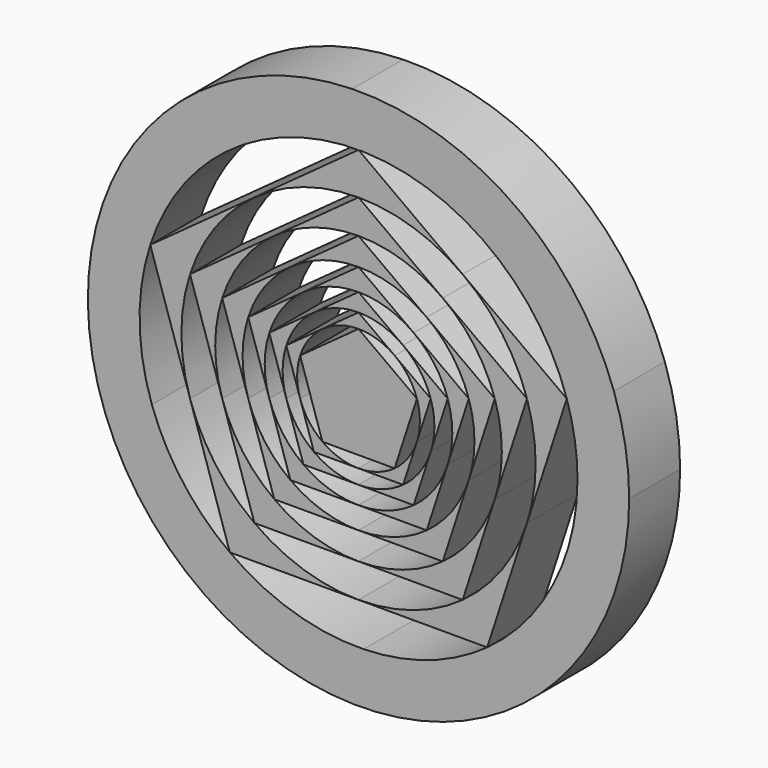
from build123d import *

# Parameters (mm, degrees)
F1_DEPTH = 25.4


with BuildPart() as f1:
    # F0 (on Front) → F1 (new body)
    with BuildSketch(Plane.XZ):
        with BuildLine():
            ThreePointArc((65.4708713133, -85.8298753901), (96.7491164256, -47.8833057638), (107.95, 0))
            ThreePointArc((107.95, 0), (106.416780338, 18.1292956975), (101.8606741549, 35.7436086694))
            Line((101.8606741549, 35.7436086694), (83.6657724814, -25.0431342047))
            Line((83.6657724814, -25.0431342047), (65.4708713133, -85.8298753901))
        make_face()
        with BuildLine():
            Line((49.6715808666, 71.8321244981), (101.8606741549, 35.7436086694))
            ThreePointArc((101.8606741549, 35.7436086694), (61.3974504102, 88.7893889106), (-2.5175125686, 107.9206404284))
            Line((-2.5175125686, 107.9206404284), (49.6715808666, 71.8321244981))
        make_face()
        with BuildLine():
            Line((83.6657724814, -25.0431342047), (101.8606741549, 35.7436086694))
            Line((101.8606741549, 35.7436086694), (49.6715808666, 71.8321244981))
            ThreePointArc((49.6715808666, 71.8321244981), (70.0507732258, 52.1537076933), (83.0589844595, 26.9875))
            ThreePointArc((83.0589844595, 26.9875), (86.2581656576, 13.6619512911), (87.3333845428, 0))
            ThreePointArc((87.3333845428, 0), (86.4116170919, -12.6551367933), (83.6657724814, -25.0431342047))
        make_face()
        with BuildLine():
            Line((2.036708915, -87.3096321862), (65.4708713133, -85.8298753901))
            Line((65.4708713133, -85.8298753901), (83.6657724814, -25.0431342047))
            ThreePointArc((83.6657724814, -25.0431342047), (71.2480027175, -50.5058626742), (51.333275467, -70.6541922714))
            ThreePointArc((51.333275467, -70.6541922714), (27.954243469, -82.7386265765), (2.036708915, -87.3096321862))
        make_face()
        with BuildLine():
            ThreePointArc((-61.3974504102, -88.7893889106), (2.5175125686, -107.9206404284), (65.4708713133, -85.8298753901))
            Line((65.4708713133, -85.8298753901), (2.036708915, -87.3096321862))
            Line((2.036708915, -87.3096321862), (-61.3974504102, -88.7893889106))
        make_face()
        with BuildLine():
            Line((-52.9670488634, 69.4378267978), (-2.5175125686, 107.9206404284))
            ThreePointArc((-2.5175125686, 107.9206404284), (-65.4708713133, 85.8298753901), (-103.4165824894, 30.955015203))
            Line((-103.4165824894, 30.955015203), (-52.9670488634, 69.4378267978))
        make_face()
        with BuildLine():
            Line((49.6715808666, 71.8321244981), (-2.5175125686, 107.9206404284))
            Line((-2.5175125686, 107.9206404284), (-52.9670488634, 69.4378267978))
            ThreePointArc((-52.9670488634, 69.4378267978), (-27.954244992, 82.738626062), (0, 87.3333845428))
            ThreePointArc((0, 87.3333845428), (26.0170857743, 83.3680472574), (49.6715808666, 71.8321244981))
        make_face()
        with BuildLine():
            Line((-82.4070165942, -28.9171864423), (-61.3974504102, -88.7893889106))
            Line((-61.3974504102, -88.7893889106), (2.036708915, -87.3096321862))
            ThreePointArc((2.036708915, -87.3096321862), (-26.0170864653, -83.3680470417), (-51.333275467, -70.6541922714))
            ThreePointArc((-51.333275467, -70.6541922714), (-70.0507733294, -52.1537075542), (-82.4070165942, -28.9171864423))
        make_face()
        with BuildLine():
            ThreePointArc((-103.4165824894, 30.955015203), (-101.8606741549, -35.7436086694), (-61.3974504102, -88.7893889106))
            Line((-61.3974504102, -88.7893889106), (-82.4070165942, -28.9171864423))
            Line((-82.4070165942, -28.9171864423), (-103.4165824894, 30.955015203))
        make_face()
        with BuildLine():
            Line((-52.9670488634, 69.4378267978), (-103.4165824894, 30.955015203))
            Line((-103.4165824894, 30.955015203), (-82.4070165942, -28.9171864423))
            ThreePointArc((-82.4070165942, -28.9171864423), (-87.3274462453, -1.0184242563), (-83.0589844595, 26.9875))
            ThreePointArc((-83.0589844595, 26.9875), (-71.2480034576, 50.5058616301), (-52.9670488634, 69.4378267978))
        make_face()
    extrude(amount=F1_DEPTH)


with BuildPart() as f1b:
    # F0 (on Front) → F1, piece 2 (new body)
    with BuildSketch(Plane.XZ):
        Polygon((14.3927852033, -19.809969339), (23.2880156517, 7.5667349714), (0, 24.4864687353), (-23.2880156517, 7.5667349714), (-14.3927852033, -19.809969339), align=None)
    extrude(amount=F1_DEPTH)


with BuildPart() as f1c:
    # F0 (on Front) → F1, piece 3 (new body)
    with BuildSketch(Plane.XZ):
        with BuildLine():
            Line((-14.392784952, 19.8099695217), (-28.7855704066, 9.3529987924))
            Line((-28.7855704066, 9.3529987924), (-23.2880157344, -7.5667347168))
            ThreePointArc((-23.2880157344, -7.5667347168), (-24.4864687353, 1.339e-07), (-23.2880156517, 7.5667349714))
            ThreePointArc((-23.2880156517, 7.5667349714), (-19.8099692477, 14.392785329), (-14.392784952, 19.8099695217))
        make_face()
    extrude(amount=F1_DEPTH)


with BuildPart() as f1d:
    # F0 (on Front) → F1, piece 4 (new body)
    with BuildSketch(Plane.XZ):
        with BuildLine():
            Line((-23.2880157344, -7.5667347168), (-17.7904608968, -24.4864687353))
            Line((-17.7904608968, -24.4864687353), (2.35e-08, -24.4864687353))
            ThreePointArc((2.35e-08, -24.4864687353), (-7.5667349603, -23.2880156553), (-14.3927852033, -19.809969339))
            ThreePointArc((-14.3927852033, -19.809969339), (-19.8099694177, -14.392785095), (-23.2880157344, -7.5667347168))
        make_face()
    extrude(amount=F1_DEPTH)


with BuildPart() as f1e:
    # F0 (on Front) → F1, piece 5 (new body)
    with BuildSketch(Plane.XZ):
        with BuildLine():
            Line((2.35e-08, -24.4864687353), (17.7904608968, -24.4864687353))
            Line((17.7904608968, -24.4864687353), (23.2880155709, -7.56673522))
            ThreePointArc((23.2880155709, -7.56673522), (19.8099692622, -14.392785309), (14.3927852033, -19.809969339))
            ThreePointArc((14.3927852033, -19.809969339), (7.5667349826, -23.2880156481), (2.35e-08, -24.4864687353))
        make_face()
    extrude(amount=F1_DEPTH)


with BuildPart() as f1f:
    # F0 (on Front) → F1, piece 6 (new body)
    with BuildSketch(Plane.XZ):
        with BuildLine():
            Line((23.2880155709, -7.56673522), (28.7855704066, 9.3529987924))
            Line((28.7855704066, 9.3529987924), (14.3927851978, 19.8099693431))
            ThreePointArc((14.3927851978, 19.8099693431), (19.809969337, 14.3927852061), (23.2880156517, 7.5667349714))
            ThreePointArc((23.2880156517, 7.5667349714), (24.1849996722, 3.8305276373), (24.4864687353, 0))
            ThreePointArc((24.4864687353, 0), (24.1849996517, -3.8305277664), (23.2880155709, -7.56673522))
        make_face()
    extrude(amount=F1_DEPTH)


with BuildPart() as f1g:
    # F0 (on Front) → F1, piece 7 (new body)
    with BuildSketch(Plane.XZ):
        with BuildLine():
            Line((14.3927851978, 19.8099693431), (0, 30.2669398857))
            Line((0, 30.2669398857), (-14.392784952, 19.8099695217))
            ThreePointArc((-14.392784952, 19.8099695217), (-7.5667348237, 23.2880156997), (0, 24.4864687353))
            ThreePointArc((0, 24.4864687353), (7.5667349682, 23.2880156528), (14.3927851978, 19.8099693431))
        make_face()
    extrude(amount=F1_DEPTH)


with BuildPart() as f1h:
    # F0 (on Front) → F1, piece 8 (new body)
    with BuildSketch(Plane.XZ):
        with BuildLine():
            Line((17.7904604127, 24.486469087), (0, 37.4119951696))
            Line((0, 37.4119951696), (-17.7904603478, 24.4864691341))
            ThreePointArc((-17.7904603478, 24.4864691341), (-9.3529984697, 28.7855705115), (0, 30.2669398857))
            ThreePointArc((0, 30.2669398857), (9.3529985079, 28.7855704991), (17.7904604127, 24.486469087))
        make_face()
    extrude(amount=F1_DEPTH)


with BuildPart() as f1i:
    # F0 (on Front) → F1, piece 9 (new body)
    with BuildSketch(Plane.XZ):
        with BuildLine():
            Line((-17.7904603478, 24.4864691341), (-35.5809217937, 11.5609423009))
            Line((-35.5809217937, 11.5609423009), (-28.7855703869, -9.3529988532))
            ThreePointArc((-28.7855703869, -9.3529988532), (-30.2669398857, -3.2e-08), (-28.7855704066, 9.3529987924))
            ThreePointArc((-28.7855704066, 9.3529987924), (-24.4864685358, 17.7904611713), (-17.7904603478, 24.4864691341))
        make_face()
    extrude(amount=F1_DEPTH)


with BuildPart() as f1j:
    # F0 (on Front) → F1, piece 10 (new body)
    with BuildSketch(Plane.XZ):
        with BuildLine():
            Line((-28.7855703869, -9.3529988532), (-21.9902190195, -30.2669398857))
            Line((-21.9902190195, -30.2669398857), (2.87e-08, -30.2669398857))
            ThreePointArc((2.87e-08, -30.2669398857), (-9.3529987788, -28.785570411), (-17.7904608968, -24.4864687353))
            ThreePointArc((-17.7904608968, -24.4864687353), (-24.4864687165, -17.7904609227), (-28.7855703869, -9.3529988532))
        make_face()
    extrude(amount=F1_DEPTH)


with BuildPart() as f1k:
    # F0 (on Front) → F1, piece 11 (new body)
    with BuildSketch(Plane.XZ):
        with BuildLine():
            Line((2.87e-08, -30.2669398857), (21.9902190195, -30.2669398857))
            Line((21.9902190195, -30.2669398857), (28.7855703869, -9.3529988532))
            ThreePointArc((28.7855703869, -9.3529988532), (24.4864687165, -17.7904609227), (17.7904608968, -24.4864687353))
            ThreePointArc((17.7904608968, -24.4864687353), (9.352998806, -28.7855704022), (2.87e-08, -30.2669398857))
        make_face()
    extrude(amount=F1_DEPTH)


with BuildPart() as f1l:
    # F0 (on Front) → F1, piece 12 (new body)
    with BuildSketch(Plane.XZ):
        with BuildLine():
            Line((28.7855703869, -9.3529988532), (35.5809217937, 11.5609423009))
            Line((35.5809217937, 11.5609423009), (17.7904604127, 24.486469087))
            ThreePointArc((17.7904604127, 24.486469087), (24.4864685594, 17.7904611389), (28.7855704066, 9.3529987924))
            ThreePointArc((28.7855704066, 9.3529987924), (29.8943036306, 4.7347925494), (30.2669398857, 0))
            ThreePointArc((30.2669398857, 0), (29.8943036256, -4.734792581), (28.7855703869, -9.3529988532))
        make_face()
    extrude(amount=F1_DEPTH)


with BuildPart() as f1m:
    # F0 (on Front) → F1, piece 13 (new body)
    with BuildSketch(Plane.XZ):
        with BuildLine():
            Line((21.9902193415, 30.2669396518), (0, 46.2437692035))
            Line((0, 46.2437692035), (-21.9902190969, 30.2669398295))
            ThreePointArc((-21.9902190969, 30.2669398295), (-11.5609423464, 35.5809217789), (0, 37.4119951696))
            ThreePointArc((0, 37.4119951696), (11.5609424901, 35.5809217322), (21.9902193415, 30.2669396518))
        make_face()
    extrude(amount=F1_DEPTH)


with BuildPart() as f1n:
    # F0 (on Front) → F1, piece 14 (new body)
    with BuildSketch(Plane.XZ):
        with BuildLine():
            Line((-21.9902190969, 30.2669398295), (-43.9804380391, 14.2901105678))
            Line((-43.9804380391, 14.2901105678), (-35.5809218678, -11.5609420729))
            ThreePointArc((-35.5809218678, -11.5609420729), (-37.4119951696, 1.199e-07), (-35.5809217937, 11.5609423009))
            ThreePointArc((-35.5809217937, 11.5609423009), (-30.2669399138, 21.9902189809), (-21.9902190969, 30.2669398295))
        make_face()
    extrude(amount=F1_DEPTH)


with BuildPart() as f1o:
    # F0 (on Front) → F1, piece 15 (new body)
    with BuildSketch(Plane.XZ):
        with BuildLine():
            Line((-35.5809218678, -11.5609420729), (-27.1814055483, -37.4119951696))
            Line((-27.1814055483, -37.4119951696), (0, -37.4119951696))
            ThreePointArc((0, -37.4119951696), (-11.5609423009, -35.5809217937), (-21.9902190195, -30.2669398857))
            ThreePointArc((-21.9902190195, -30.2669398857), (-30.2669399562, -21.9902189226), (-35.5809218678, -11.5609420729))
        make_face()
    extrude(amount=F1_DEPTH)


with BuildPart() as f1p:
    # F0 (on Front) → F1, piece 16 (new body)
    with BuildSketch(Plane.XZ):
        with BuildLine():
            Line((0, -37.4119951696), (27.1814055483, -37.4119951696))
            Line((27.1814055483, -37.4119951696), (35.5809216693, -11.5609426837))
            ThreePointArc((35.5809216693, -11.5609426837), (30.2669397674, -21.9902191823), (21.9902190195, -30.2669398857))
            ThreePointArc((21.9902190195, -30.2669398857), (11.5609423009, -35.5809217937), (0, -37.4119951696))
        make_face()
    extrude(amount=F1_DEPTH)


with BuildPart() as f1q:
    # F0 (on Front) → F1, piece 17 (new body)
    with BuildSketch(Plane.XZ):
        with BuildLine():
            Line((35.5809216693, -11.5609426837), (43.9804380391, 14.2901105678))
            Line((43.9804380391, 14.2901105678), (21.9902193415, 30.2669396518))
            ThreePointArc((21.9902193415, 30.2669396518), (30.2669400027, 21.9902188586), (35.5809217937, 11.5609423009))
            ThreePointArc((35.5809217937, 11.5609423009), (36.9513914274, 5.8525254504), (37.4119951696, 0))
            ThreePointArc((37.4119951696, 0), (36.951391396, -5.8525256492), (35.5809216693, -11.5609426837))
        make_face()
    extrude(amount=F1_DEPTH)


with BuildPart() as f1r:
    # F0 (on Front) → F1, piece 18 (new body)
    with BuildSketch(Plane.XZ):
        with BuildLine():
            Line((27.1814040011, 37.4119962937), (0, 57.1604422714))
            Line((0, 57.1604422714), (-27.1814039656, 37.4119963195))
            ThreePointArc((-27.1814039656, 37.4119963195), (-14.2901096376, 43.9804383413), (0, 46.2437692035))
            ThreePointArc((0, 46.2437692035), (14.2901096585, 43.9804383346), (27.1814040011, 37.4119962937))
        make_face()
    extrude(amount=F1_DEPTH)


with BuildPart() as f1s:
    # F0 (on Front) → F1, piece 19 (new body)
    with BuildSketch(Plane.XZ):
        with BuildLine():
            Line((-27.1814039656, 37.4119963195), (-54.3628110965, 17.6635480678))
            Line((-54.3628110965, 17.6635480678), (-43.9804386753, -14.2901086097))
            ThreePointArc((-43.9804386753, -14.2901086097), (-46.2437692035, 1.0294e-06), (-43.9804380391, 14.2901105678))
            ThreePointArc((-43.9804380391, 14.2901105678), (-37.4119945947, 27.1814063396), (-27.1814039656, 37.4119963195))
        make_face()
    extrude(amount=F1_DEPTH)


with BuildPart() as f1t:
    # F0 (on Front) → F1, piece 20 (new body)
    with BuildSketch(Plane.XZ):
        with BuildLine():
            Line((-43.9804386753, -14.2901086097), (-33.5980649816, -46.2437692035))
            Line((-33.5980649816, -46.2437692035), (0, -46.2437692035))
            ThreePointArc((0, -46.2437692035), (-14.2901105678, -43.9804380391), (-27.1814055483, -37.4119951696))
            ThreePointArc((-27.1814055483, -37.4119951696), (-37.4119957747, -27.1814047154), (-43.9804386753, -14.2901086097))
        make_face()
    extrude(amount=F1_DEPTH)


with BuildPart() as f1u:
    # F0 (on Front) → F1, piece 21 (new body)
    with BuildSketch(Plane.XZ):
        with BuildLine():
            Line((0, -46.2437692035), (33.5980649816, -46.2437692035))
            Line((33.5980649816, -46.2437692035), (43.9804387502, -14.2901083794))
            ThreePointArc((43.9804387502, -14.2901083794), (37.4119958459, -27.1814046174), (27.1814055483, -37.4119951696))
            ThreePointArc((27.1814055483, -37.4119951696), (14.2901105678, -43.9804380391), (0, -46.2437692035))
        make_face()
    extrude(amount=F1_DEPTH)


with BuildPart() as f1v:
    # F0 (on Front) → F1, piece 22 (new body)
    with BuildSketch(Plane.XZ):
        with BuildLine():
            Line((43.9804387502, -14.2901083794), (54.3628110965, 17.6635480678))
            Line((54.3628110965, 17.6635480678), (27.1814040011, 37.4119962937))
            ThreePointArc((27.1814040011, 37.4119962937), (37.4119946076, 27.1814063218), (43.9804380391, 14.2901105678))
            ThreePointArc((43.9804380391, 14.2901105678), (45.6744316675, 7.2341192968), (46.2437692035, 0))
            ThreePointArc((46.2437692035, 0), (45.6744318475, -7.2341181604), (43.9804387502, -14.2901083794))
        make_face()
    extrude(amount=F1_DEPTH)


with BuildPart() as f1w:
    # F0 (on Front) → F1, piece 23 (new body)
    with BuildSketch(Plane.XZ):
        with BuildLine():
            Line((33.5980670213, 46.2437677217), (0, 70.6541922714))
            Line((0, 70.6541922714), (-33.5980666994, 46.2437679555))
            ThreePointArc((-33.5980666994, 46.2437679555), (-17.6635490775, 54.3628107684), (0, 57.1604422714))
            ThreePointArc((0, 57.1604422714), (17.6635492667, 54.362810707), (33.5980670213, 46.2437677217))
        make_face()
    extrude(amount=F1_DEPTH)


with BuildPart() as f1x:
    # F0 (on Front) → F1, piece 24 (new body)
    with BuildSketch(Plane.XZ):
        with BuildLine():
            Line((-33.5980666994, 46.2437679555), (-67.1961299633, 21.8333461357))
            Line((-67.1961299633, 21.8333461357), (-54.3628114976, -17.6635468334))
            ThreePointArc((-54.3628114976, -17.6635468334), (-57.1604422714, 6.49e-07), (-54.3628110965, 17.6635480678))
            ThreePointArc((-54.3628110965, 17.6635480678), (-46.2437698276, 33.5980641227), (-33.5980666994, 46.2437679555))
        make_face()
    extrude(amount=F1_DEPTH)


with BuildPart() as f1y:
    # F0 (on Front) → F1, piece 25 (new body)
    with BuildSketch(Plane.XZ):
        with BuildLine():
            Line((-54.3628114976, -17.6635468334), (-41.5294922298, -57.1604422714))
            Line((-41.5294922298, -57.1604422714), (-1.032e-07, -57.1604422714))
            ThreePointArc((-1.032e-07, -57.1604422714), (-17.6635481169, -54.3628110806), (-33.5980649816, -46.2437692035))
            ThreePointArc((-33.5980649816, -46.2437692035), (-46.243769585, -33.5980644566), (-54.3628114976, -17.6635468334))
        make_face()
    extrude(amount=F1_DEPTH)


with BuildPart() as f1z:
    # F0 (on Front) → F1, piece 26 (new body)
    with BuildSketch(Plane.XZ):
        with BuildLine():
            Line((-1.032e-07, -57.1604422714), (41.5294922298, -57.1604422714))
            Line((41.5294922298, -57.1604422714), (54.3628109824, -17.6635484191))
            ThreePointArc((54.3628109824, -17.6635484191), (46.243769095, -33.598065131), (33.5980649816, -46.2437692035))
            ThreePointArc((33.5980649816, -46.2437692035), (17.6635480188, -54.3628111125), (-1.032e-07, -57.1604422714))
        make_face()
    extrude(amount=F1_DEPTH)


with BuildPart() as f1ba:
    # F0 (on Front) → F1, piece 27 (new body)
    with BuildSketch(Plane.XZ):
        with BuildLine():
            Line((54.3628109824, -17.6635484191), (67.1961299633, 21.8333461357))
            Line((67.1961299633, 21.8333461357), (33.5980670213, 46.2437677217))
            ThreePointArc((33.5980670213, 46.2437677217), (46.2437699445, 33.5980639618), (54.3628110965, 17.6635480678))
            ThreePointArc((54.3628110965, 17.6635480678), (56.4567023747, 8.9418632082), (57.1604422714, 0))
            ThreePointArc((57.1604422714, 0), (56.4567023458, -8.9418633906), (54.3628109824, -17.6635484191))
        make_face()
    extrude(amount=F1_DEPTH)


with BuildPart() as f1bb:
    # F0 (on Front) → F1, piece 28 (new body)
    with BuildSketch(Plane.XZ):
        with BuildLine():
            Line((41.5294921283, 57.1604423451), (0, 87.3333845428))
            Line((0, 87.3333845428), (-41.5294921283, 57.1604423451))
            ThreePointArc((-41.5294921283, 57.1604423451), (-21.8333460761, 67.1961299826), (0, 70.6541922714))
            ThreePointArc((0, 70.6541922714), (21.8333460761, 67.1961299826), (41.5294921283, 57.1604423451))
        make_face()
    extrude(amount=F1_DEPTH)


with BuildPart() as f1bc:
    # F0 (on Front) → F1, piece 29 (new body)
    with BuildSketch(Plane.XZ):
        with BuildLine():
            Line((-41.5294921283, 57.1604423451), (-83.0589844595, 26.9875))
            Line((-83.0589844595, 26.9875), (-67.1961299589, -21.833346149))
            ThreePointArc((-67.1961299589, -21.833346149), (-70.6541922714, -7e-09), (-67.1961299633, 21.8333461357))
            ThreePointArc((-67.1961299633, 21.8333461357), (-57.1604422345, 41.5294922805), (-41.5294921283, 57.1604423451))
        make_face()
    extrude(amount=F1_DEPTH)


with BuildPart() as f1bd:
    # F0 (on Front) → F1, piece 30 (new body)
    with BuildSketch(Plane.XZ):
        with BuildLine():
            Line((-67.1961299589, -21.833346149), (-51.333275467, -70.6541922714))
            Line((-51.333275467, -70.6541922714), (-4.38e-08, -70.6541922714))
            ThreePointArc((-4.38e-08, -70.6541922714), (-21.8333461565, -67.1961299565), (-41.5294922298, -57.1604422714))
            ThreePointArc((-41.5294922298, -57.1604422714), (-57.1604422673, -41.5294922354), (-67.1961299589, -21.833346149))
        make_face()
    extrude(amount=F1_DEPTH)


with BuildPart() as f1be:
    # F0 (on Front) → F1, piece 31 (new body)
    with BuildSketch(Plane.XZ):
        with BuildLine():
            Line((-4.38e-08, -70.6541922714), (51.333275467, -70.6541922714))
            Line((51.333275467, -70.6541922714), (67.196129765, -21.8333467461))
            ThreePointArc((67.196129765, -21.8333467461), (57.1604420828, -41.5294924894), (41.5294922298, -57.1604422714))
            ThreePointArc((41.5294922298, -57.1604422714), (21.8333461149, -67.19612997), (-4.38e-08, -70.6541922714))
        make_face()
    extrude(amount=F1_DEPTH)


with BuildPart() as f1bf:
    # F0 (on Front) → F1, piece 32 (new body)
    with BuildSketch(Plane.XZ):
        with BuildLine():
            Line((67.196129765, -21.8333467461), (83.0589844595, 26.9875))
            Line((83.0589844595, 26.9875), (41.5294921283, 57.1604423451))
            ThreePointArc((41.5294921283, 57.1604423451), (57.1604422345, 41.5294922805), (67.1961299633, 21.8333461357))
            ThreePointArc((67.1961299633, 21.8333461357), (69.7843219206, 11.0527507708), (70.6541922714, 0))
            ThreePointArc((70.6541922714, 0), (69.7843218704, -11.0527510878), (67.196129765, -21.8333467461))
        make_face()
    extrude(amount=F1_DEPTH)


solid = Compound([f1.part, f1b.part, f1c.part, f1d.part, f1e.part, f1f.part, f1g.part, f1h.part, f1i.part, f1j.part, f1k.part, f1l.part, f1m.part, f1n.part, f1o.part, f1p.part, f1q.part, f1r.part, f1s.part, f1t.part, f1u.part, f1v.part, f1w.part, f1x.part, f1y.part, f1z.part, f1ba.part, f1bb.part, f1bc.part, f1bd.part, f1be.part, f1bf.part])
